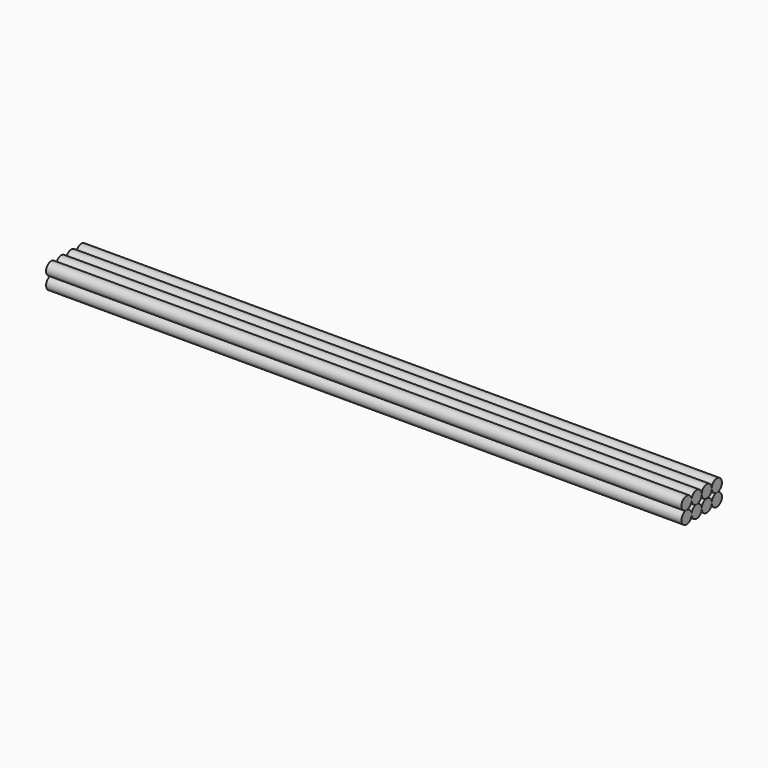
from build123d import *

# Parameters (mm, degrees)
F1_DEPTH = 12.7762


with BuildPart() as f1:
    # F0 (on Right) → F1 (new body)
    with BuildSketch(Plane.YZ):
        with BuildLine():
            ThreePointArc((-0.381, 0), (-0.291197, 0.037197), (-0.254, 0.127))
            ThreePointArc((-0.254, 0.127), (-0.470803, 0.216803), (-0.381, 0))
        make_face()
        with BuildLine():
            ThreePointArc((0, 0.127), (-0.127, 0.254), (-0.254, 0.127))
            ThreePointArc((-0.254, 0.127), (-0.216803, 0.037197), (-0.127, 0))
            ThreePointArc((-0.127, 0), (-0.037197, 0.037197), (0, 0.127))
        make_face()
        with BuildLine():
            ThreePointArc((0, -0.127), (-0.037197, -0.037197), (-0.127, 0))
            ThreePointArc((-0.127, 0), (-0.216803, -0.037197), (-0.254, -0.127))
            ThreePointArc((-0.254, -0.127), (-0.127, -0.254), (0, -0.127))
        make_face()
        with BuildLine():
            ThreePointArc((0.254, 0.127), (0.127, 0.254), (0, 0.127))
            ThreePointArc((0, 0.127), (0.037197, 0.037197), (0.127, 0))
            ThreePointArc((0.127, 0), (0.216803, 0.037197), (0.254, 0.127))
        make_face()
        with BuildLine():
            ThreePointArc((-0.254, -0.127), (-0.291197, -0.037197), (-0.381, 0))
            ThreePointArc((-0.381, 0), (-0.470803, -0.216803), (-0.254, -0.127))
        make_face()
        with BuildLine():
            ThreePointArc((0.254, -0.127), (0.216803, -0.037197), (0.127, 0))
            ThreePointArc((0.127, 0), (0.037197, -0.037197), (0, -0.127))
            ThreePointArc((0, -0.127), (0.127, -0.254), (0.254, -0.127))
        make_face()
        with BuildLine():
            ThreePointArc((0.508, 0.127), (0.381, 0.254), (0.254, 0.127))
            ThreePointArc((0.254, 0.127), (0.291197, 0.037197), (0.381, 0))
            ThreePointArc((0.381, 0), (0.470803, 0.037197), (0.508, 0.127))
        make_face()
        with BuildLine():
            ThreePointArc((0.508, -0.127), (0.470803, -0.037197), (0.381, 0))
            ThreePointArc((0.381, 0), (0.291197, -0.037197), (0.254, -0.127))
            ThreePointArc((0.254, -0.127), (0.381, -0.254), (0.508, -0.127))
        make_face()
    extrude(amount=F1_DEPTH)


solid = f1.part
